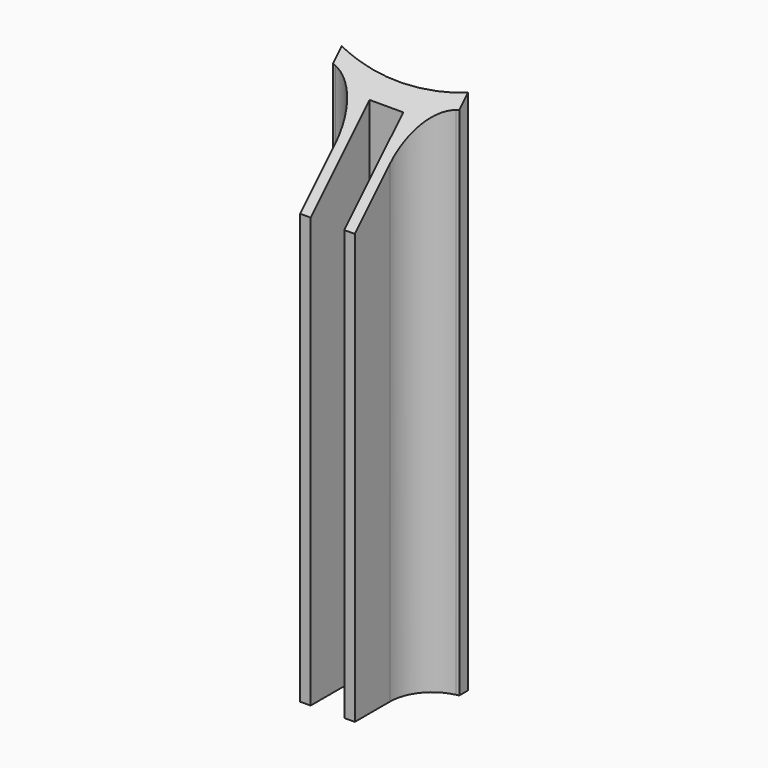
from build123d import *

# Parameters (mm, degrees)
PAD004_DEPTH            = 50
FILLET003_R             = 4
POCKET003_DEPTH         = 8.601
POCKET003_DEPTH_BACK    = 3.401
BODY005_PLACEMENT_ANGLE = 90


with BuildPart() as part:
    # Sketch008 → Pad004 (new body)
    with BuildSketch(Plane.XY):
        with BuildLine():
            ThreePointArc((24.269322199, -6), (25, 0), (24.269322199, 6))
            Line((24.269322199, 6), (25.2982212813, 6))
            ThreePointArc((25.8696733648, 2.6), (25.6403658443, 4.3094824946), (25.2982212813, 6))
            Line((25.8696733648, 2.6), (33.4516540126, 2.6))
            Line((33.4516540126, 2.6), (33.4516540126, 1.6))
            Line((33.4516540126, 1.6), (26.4516540126, 1.6))
            Line((26.4516540126, 1.6), (26.4516540126, -1.6))
            Line((26.4516540126, -1.6), (33.4516540126, -1.6))
            Line((33.4516540126, -1.6), (33.4516540126, -2.6))
            Line((33.4516540126, -2.6), (25.8696733648, -2.6))
            ThreePointArc((25.2982212813, -6), (25.6403658443, -4.3094824946), (25.8696733648, -2.6))
            Line((24.269322199, -6), (25.2982212813, -6))
        make_face()
    extrude(amount=PAD004_DEPTH)

    # Fillet003
    fillet003_edges = [part.edges().sort_by_distance(p)[0] for p in [
        (25.869673, -2.6, 25),
        (25.869673, 2.6, 25),
    ]]
    fillet(fillet003_edges, radius=FILLET003_R)

    # Sketch009 (on Face15 of Fillet003) → Pocket003 (cut, two sides)
    with BuildSketch(Plane.XZ.offset(2.6)) as pocket003_sk:
        Polygon((33.4516540126, 50), (33.4516540126, 40.8176681865), (24.269322199, 50), align=None)
    extrude(amount=-POCKET003_DEPTH, mode=Mode.SUBTRACT)
    extrude(pocket003_sk.sketch, amount=POCKET003_DEPTH_BACK, mode=Mode.SUBTRACT)


with BuildPart() as part_1:
    # Body005 placement: moved
    add(part.part.rotate(Axis((0, 0, 0), (0, 0, -1)), BODY005_PLACEMENT_ANGLE))


solid = part_1.part
